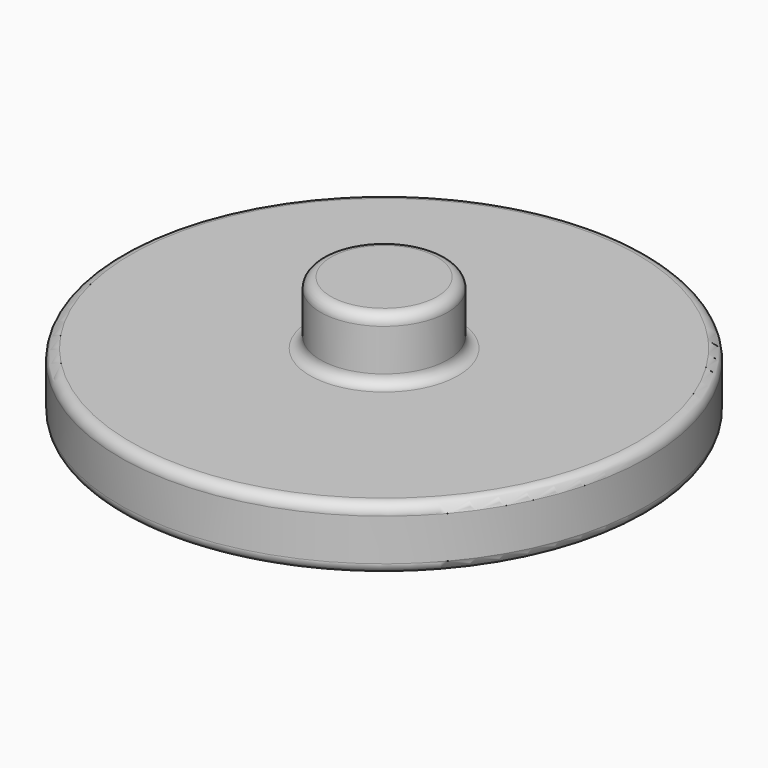
from build123d import *

# Parameters (mm, degrees)
F0_R     = 31.996319
F1_DEPTH = 7.62
F2_R     = 7.717623
F3_DEPTH = 7.62
F4_R     = 1.27


with BuildPart() as f1:
    # F0 (on Top) → F1 (new body)
    with BuildSketch(Plane.XY):
        Circle(F0_R)
    extrude(amount=F1_DEPTH)

    # F2 (on face) → F3 (join)
    with BuildSketch(Plane.XY.offset(7.62)):
        Circle(F2_R)
    extrude(amount=F3_DEPTH)

    # F4
    f4_edges = [f1.edges().sort_by_distance(p)[0] for p in [
        (-7.717623, 0, 15.24),
        (-31.996319, 0, 7.62),
        (-7.717623, 0, 7.62),
        (-31.996319, 0, 0),
    ]]
    fillet(f4_edges, radius=F4_R)


solid = f1.part
